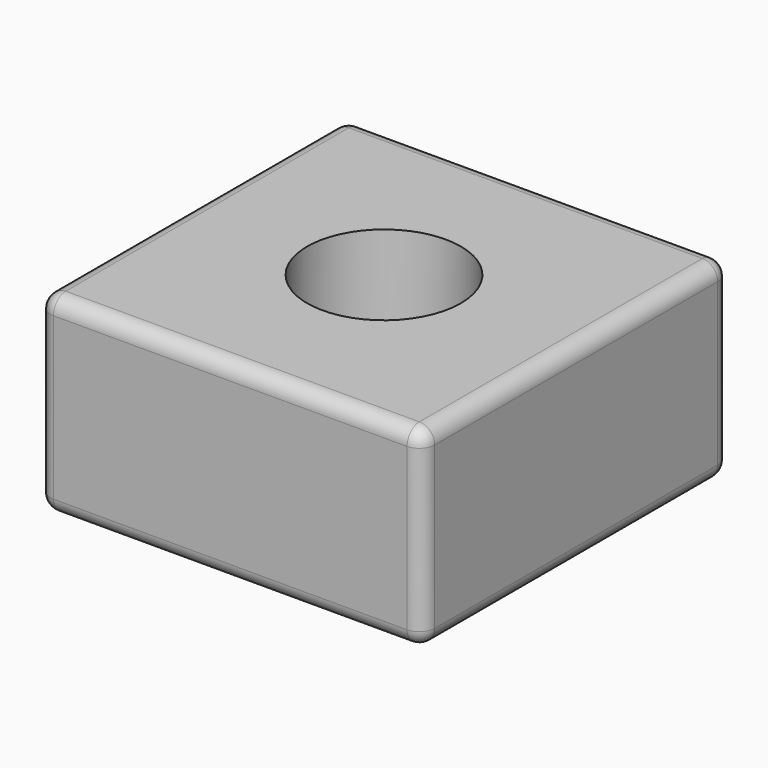
from build123d import *

# Parameters (mm, degrees)
F0_W     = 12.7
F0_H     = 12.7
F0_R     = 2.54
F1_DEPTH = 6.35
F2_SIZE  = 2.54
F3_R     = 0.508


with BuildPart() as f1:
    # F0 (on Top) → F1 (new body)
    with BuildSketch(Plane.XY):
        Rectangle(F0_W, F0_H)
        Circle(F0_R, mode=Mode.SUBTRACT)
    extrude(amount=F1_DEPTH)

    # F2
    f2_edges = [f1.edges().sort_by_distance(p)[0] for p in [
        (-2.54, 0, 0),
    ]]
    chamfer(f2_edges, length=F2_SIZE)

    # F3
    f3_edges = [f1.edges().sort_by_distance(p)[0] for p in [
        (0, -6.35, 0),
        (6.35, 0, 0),
        (0, 6.35, 0),
        (-6.35, 0, 0),
        (-6.35, -6.35, 3.175),
        (6.35, -6.35, 3.175),
        (6.35, 6.35, 3.175),
        (-6.35, 6.35, 3.175),
        (0, 6.35, 6.35),
        (-6.35, 0, 6.35),
        (0, -6.35, 6.35),
        (6.35, 0, 6.35),
    ]]
    fillet(f3_edges, radius=F3_R)


solid = f1.part
